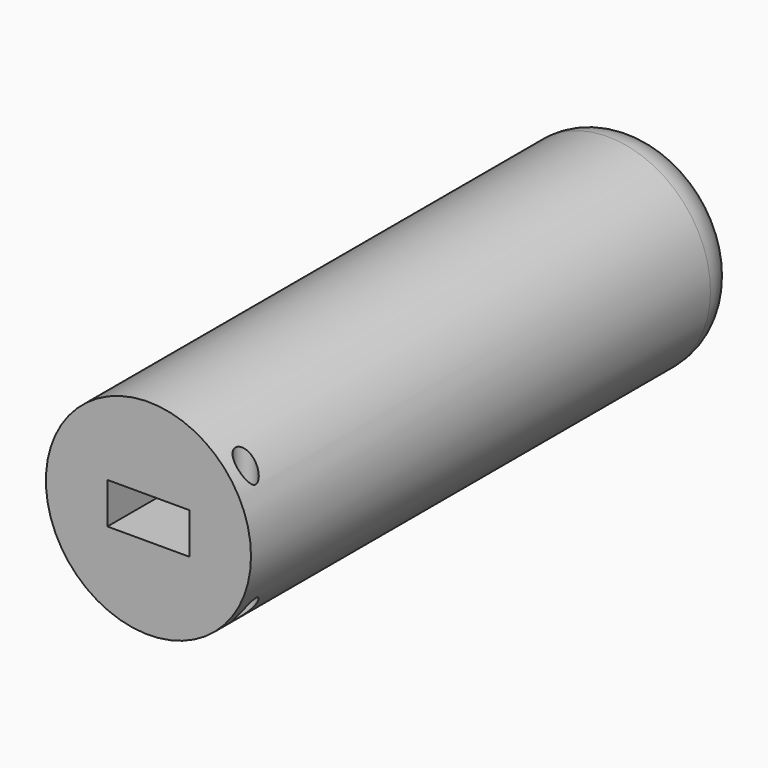
from build123d import *

# Parameters (mm, degrees)
F0_R           = 12.7
F1_DEPTH       = 76.2
F3_R           = 6.35
F4_DEPTH       = 19.05
F5_R           = 6.35
F6_DEPTH       = 11.938
F7_DEPTH       = 19.05
F8_R           = 5.08
F9_R           = 1.27
F10_DEPTH      = 25.4
F10_DEPTH_BACK = 25.4


with BuildPart() as f1:
    # F0 (on Front) → F1 (new body)
    with BuildSketch(Plane.XZ):
        Circle(F0_R)
    extrude(amount=-F1_DEPTH)

    # F3 (on face) → F4 (cut)
    with BuildSketch(Plane.XZ):
        Circle(F3_R)
    extrude(amount=-F4_DEPTH, mode=Mode.SUBTRACT)

    # F5 (on face) → F6 (join)
    with BuildSketch(Plane.XZ):
        Circle(F5_R)
    extrude(amount=-F6_DEPTH)

    # F2 (on face) → F7 (cut)
    with BuildSketch(Plane.XZ):
        Polygon((5.08, -2.54), (5.08, 0), (5.08, 2.54), (-5.08, 2.54), (-5.08, -2.54), align=None)
    extrude(amount=-F7_DEPTH, mode=Mode.SUBTRACT)

    # F8
    f8_edges = [f1.edges().sort_by_distance(p)[0] for p in [
        (-12.7, 76.2, 0),
    ]]
    fillet(f8_edges, radius=F8_R)

    # F9 (on Top) → F10 (cut, two sides)
    with BuildSketch(Plane.XY) as f10_sk:
        with Locations((9.823189, 2.76481)):
            Circle(F9_R)
    extrude(amount=F10_DEPTH, mode=Mode.SUBTRACT)
    extrude(f10_sk.sketch, amount=-F10_DEPTH_BACK, mode=Mode.SUBTRACT)


solid = f1.part
